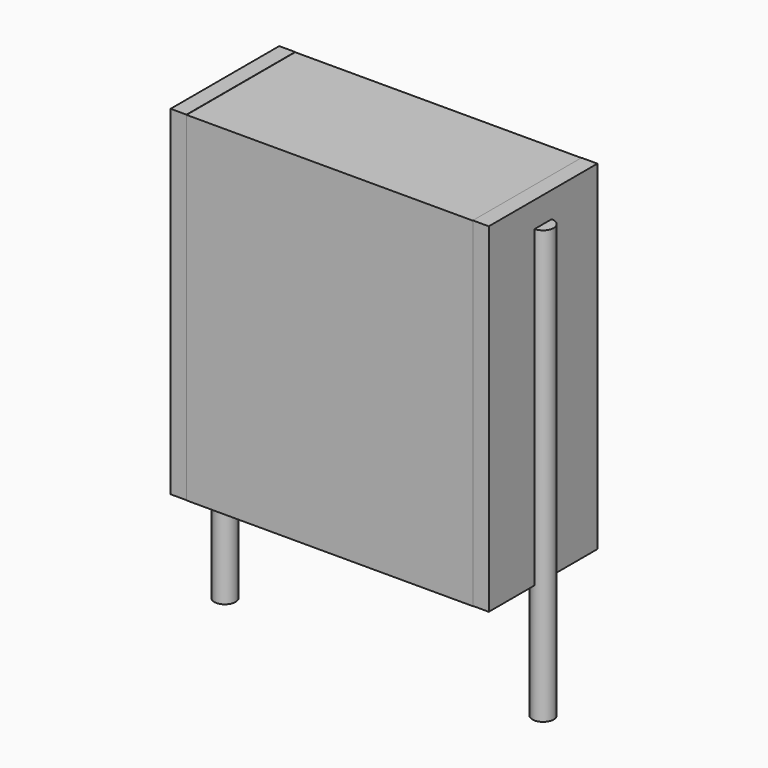
from build123d import *

# Parameters (mm, degrees)
SKETCH_W          = 6.75
SKETCH_H          = 3.2
PAD_DEPTH         = 8
SKETCH001_R       = 0.25
PAD001_DEPTH      = 7
PAD001_DEPTH_BACK = 3.2
SKETCH002_W       = 0.375
SKETCH002_H       = 3.2
PAD002_DEPTH      = 8


with BuildPart() as pad:
    # Sketch → Pad (new body)
    with BuildSketch(Plane.XY.offset(0.1)):
        with Locations((3.75, 0)):
            Rectangle(SKETCH_W, SKETCH_H)
    extrude(amount=PAD_DEPTH)


with BuildPart() as pad001:
    # Sketch001 → Pad001 (new body, two sides)
    with BuildSketch(Plane.XY.offset(0.5)) as pad001_sk:
        Circle(SKETCH001_R)
        with Locations((7.5, 0)):
            Circle(SKETCH001_R)
    extrude(amount=PAD001_DEPTH)
    extrude(pad001_sk.sketch, amount=-PAD001_DEPTH_BACK)


with BuildPart() as pad002:
    # Sketch002 → Pad002 (new body)
    with BuildSketch(Plane.XY.offset(0.105)):
        with Locations((0.1875, 0)):
            Rectangle(SKETCH002_W, SKETCH002_H)
        with Locations((7.3125, 0)):
            Rectangle(SKETCH002_W, SKETCH002_H)
    extrude(amount=PAD002_DEPTH)


solid = Compound([pad.part, pad001.part, pad002.part])
